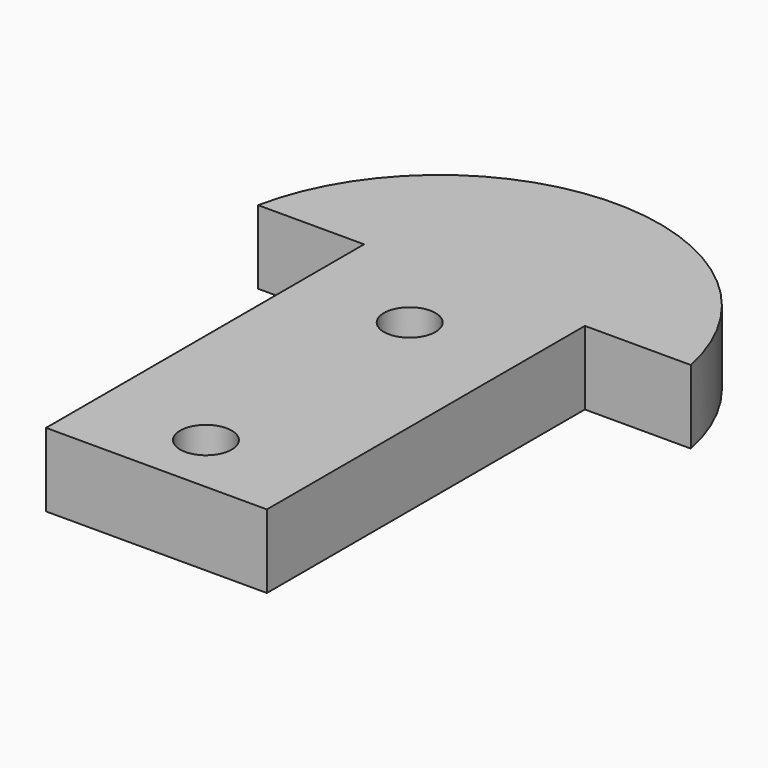
from build123d import *

# Parameters (mm, degrees)
F0_R     = 1.75
F1_DEPTH = 5


with BuildPart() as f1:
    # F0 (on Top) → F1 (new body)
    with BuildSketch(Plane.XY):
        with BuildLine():
            Line((-7.5, 13.5), (-7.5, -13.5))
            Line((-7.5, -13.5), (7.5, -13.5))
            Line((7.5, -13.5), (7.5, 13.5))
            Line((7.5, 13.5), (14.696938, 13.5))
            ThreePointArc((14.696938, 13.5), (0, 25.5), (-14.696938, 13.5))
            Line((-14.696938, 13.5), (-7.5, 13.5))
        make_face()
        with Locations((0, -9.3)):
            Circle(F0_R, mode=Mode.SUBTRACT)
        with Locations((0, 8)):
            Circle(F0_R, mode=Mode.SUBTRACT)
    extrude(amount=F1_DEPTH)


solid = f1.part
